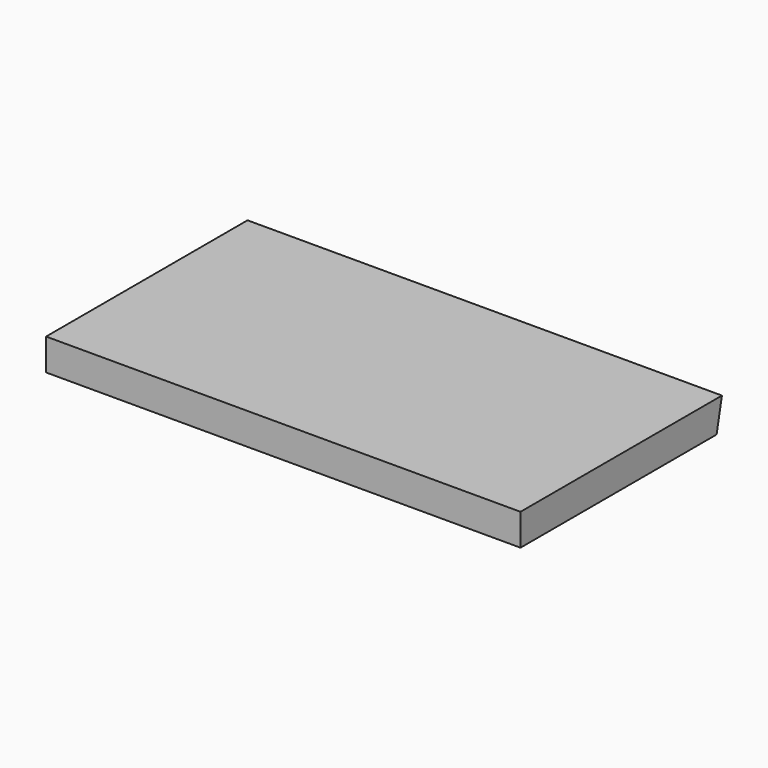
from build123d import *

# Parameters (mm, degrees)
F1_DEPTH = 300
F2_T     = -2.5


with BuildPart() as f1:
    # F0 (on Right) → F1 (new body)
    with BuildSketch(Plane.YZ):
        Polygon((0, 20), (0, 0), (155, 0), (159.20737, 20), (155, 20), align=None)
    extrude(amount=F1_DEPTH)

    # F2
    f2_openings = [f1.faces().sort_by_distance(p)[0] for p in [
        (150, 77.5, 0),
    ]]
    offset(amount=F2_T, openings=f2_openings)


solid = f1.part
